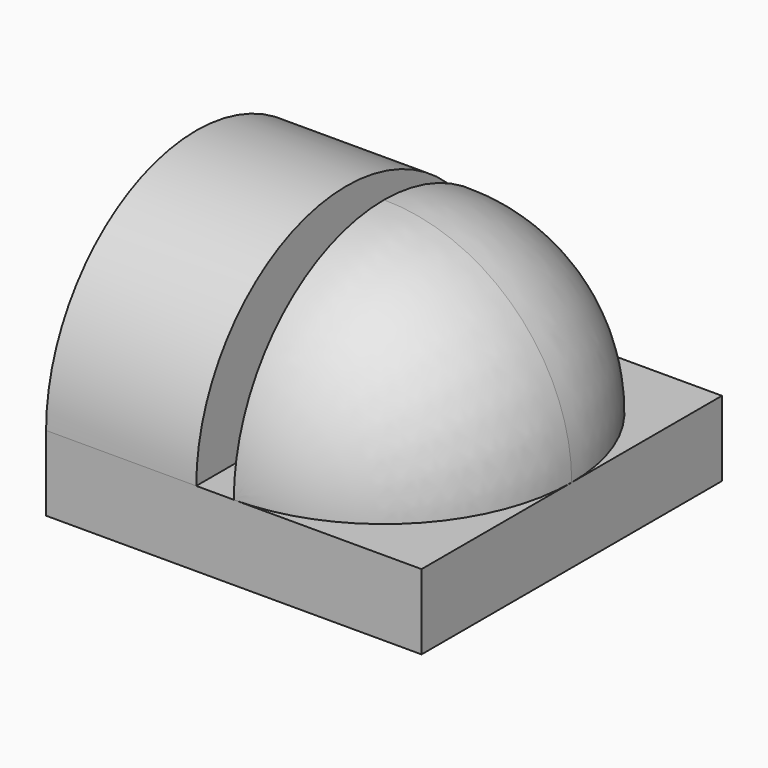
from build123d import *

# Parameters (mm, degrees)
F0_W     = 25
F0_H     = 25
F1_DEPTH = 5
F3_ANGLE = 90
F5_DEPTH = 10
F6_DEPTH = 5


with BuildPart() as f1:
    # F0 (on Top) → F1 (new body)
    with BuildSketch(Plane.XY):
        Rectangle(F0_W, F0_H)
    extrude(amount=F1_DEPTH)

    # F2 (on face) → F3 (revolve)
    with BuildSketch(Plane.XY.offset(5)):
        with BuildLine():
            ThreePointArc((12.5, 0), (8.838835, 8.838835), (0, 12.5))
            Line((0, 12.5), (0, -12.5))
            ThreePointArc((0, -12.5), (8.838835, -8.838835), (12.5, 0))
        make_face()
    revolve(axis=Axis((0, 0, 5), (0, -1, 0)), revolution_arc=F3_ANGLE)

    # F4 (on face) → F5 (join)
    with BuildSketch(Plane(origin=(-12.5, 0, 0), x_dir=(0, -1, 0), z_dir=(-1, 0, 0))):
        with BuildLine():
            Line((8, 5), (12.5, 5))
            ThreePointArc((12.5, 5), (0, 17.5), (-12.5, 5))
            Line((-12.5, 5), (-8, 5))
            ThreePointArc((-8, 5), (0, 13), (8, 5))
        make_face()
        with BuildLine():
            Line((5, 5), (8, 5))
            ThreePointArc((8, 5), (0, 13), (-8, 5))
            Line((-8, 5), (-5, 5))
            ThreePointArc((-5, 5), (0, 10), (5, 5))
        make_face()
    extrude(amount=-F5_DEPTH)

    # F4 (on face) → F6 (cut)
    with BuildSketch(Plane(origin=(-12.5, 0, 0), x_dir=(0, -1, 0), z_dir=(-1, 0, 0))):
        with BuildLine():
            Line((5, 5), (8, 5))
            ThreePointArc((8, 5), (0, 13), (-8, 5))
            Line((-8, 5), (-5, 5))
            ThreePointArc((-5, 5), (0, 10), (5, 5))
        make_face()
    extrude(amount=-F6_DEPTH, mode=Mode.SUBTRACT)


solid = f1.part
